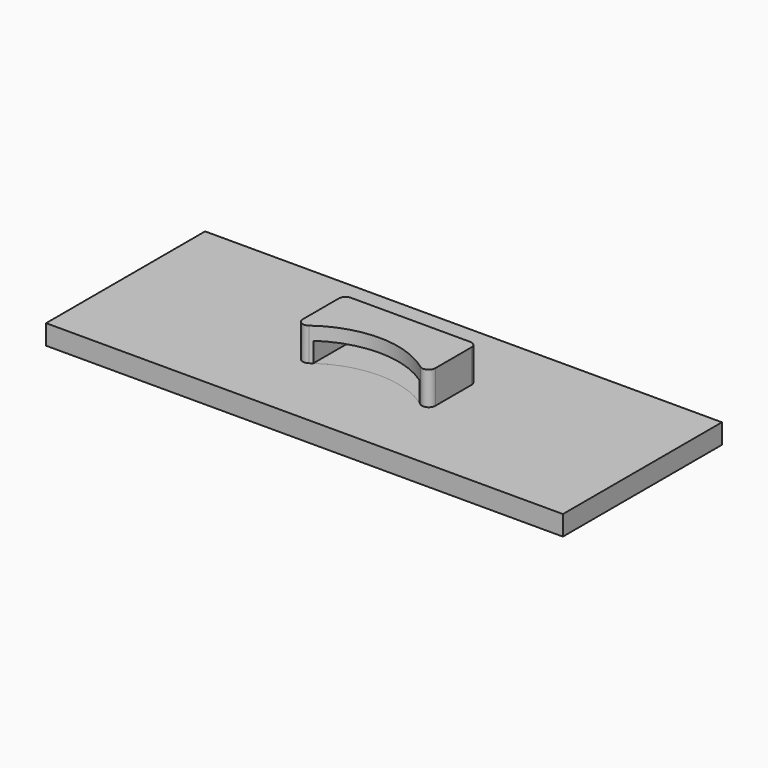
from build123d import *

# Parameters (mm, degrees)
BOX_W           = 78
BOX_H           = 30
BOX_DEPTH       = 3
SKETCH001_W     = 20
SKETCH001_H     = 10
PAD_DEPTH       = 5
SKETCH002_W     = 16
SKETCH002_H     = 3
POCKET_DEPTH    = 20.001
POCKET001_DEPTH = 5
FILLET_R        = 1


with BuildPart() as part:
    # Box → Box (join)
    with BuildSketch(Plane.XY):
        with Locations((39, 15)):
            Rectangle(BOX_W, BOX_H)
    extrude(amount=BOX_DEPTH)

    # Sketch001 (on Face6 of Box) → Pad (join)
    with BuildSketch(Plane.XY.offset(3)):
        with Locations((39, 15)):
            Rectangle(SKETCH001_W, SKETCH001_H)
    extrude(amount=PAD_DEPTH)

    # Sketch002 (on Face8 of Pad) → Pocket (cut, through all)
    with BuildSketch(Plane.XZ.offset(-10)):
        with Locations((39, 4.501)):
            Rectangle(SKETCH002_W, SKETCH002_H)
    extrude(amount=-POCKET_DEPTH, mode=Mode.SUBTRACT)

    # Sketch003 (on Face11 of Pocket) → Pocket001 (cut)
    with BuildSketch(Plane.XY.offset(8)):
        with BuildLine():
            ThreePointArc((49, 10), (39, 14.142136), (29, 10))
            Line((29, 10), (49, 10))
        make_face()
    extrude(amount=-POCKET001_DEPTH, mode=Mode.SUBTRACT)

    # Fillet
    fillet_edges = [part.edges().sort_by_distance(p)[0] for p in [
        (49, 10, 5.5),
        (49, 20, 5.5),
        (29, 20, 5.5),
        (29, 10, 5.5),
    ]]
    fillet(fillet_edges, radius=FILLET_R)


solid = part.part
